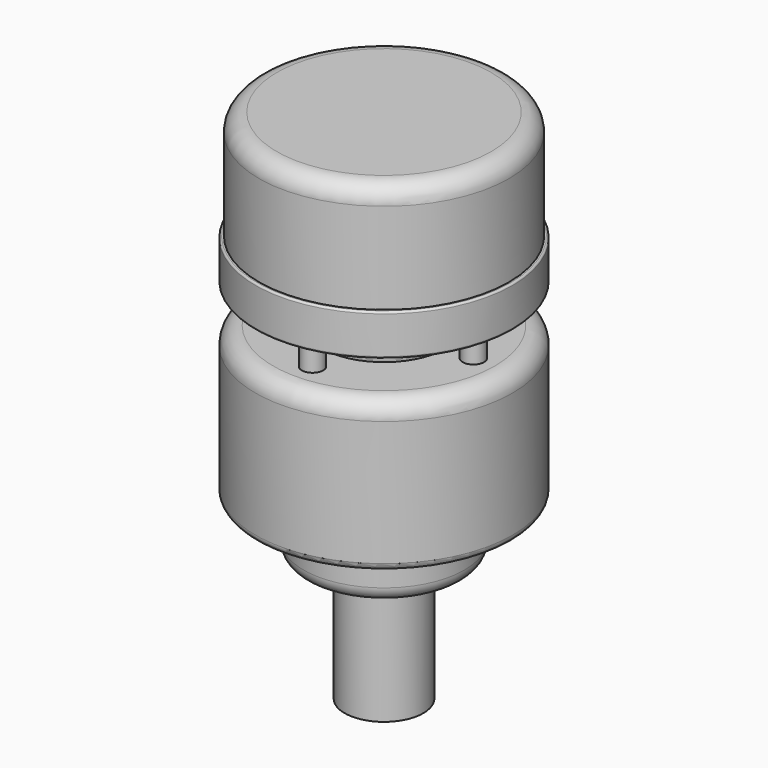
from build123d import *

# Parameters (mm, degrees)
CYLINDER003_R             = 11
CYLINDER003_DEPTH         = 35
CYLINDER007_R             = 3
CYLINDER007_DEPTH         = 14
CYLINDER006_R             = 3
CYLINDER006_DEPTH         = 14
FUSION001_PLACEMENT_ANGLE = 90
CYLINDER005_R             = 3
CYLINDER005_DEPTH         = 14
CYLINDER004_R             = 3
CYLINDER004_DEPTH         = 14
CYLINDER008_R             = 4
CYLINDER008_DEPTH         = 14
CYLINDER015_R             = 36
CYLINDER015_DEPTH         = 5.5
CYLINDER014_R             = 36
CYLINDER014_DEPTH         = 6
CYLINDER012_R             = 8.5
CYLINDER012_DEPTH         = 2
CYLINDER011_R             = 8.5
CYLINDER011_DEPTH         = 2
FUSION004_PLACEMENT_ANGLE = 90
CYLINDER010_R             = 8.5
CYLINDER010_DEPTH         = 2
CYLINDER009_R             = 8.5
CYLINDER009_DEPTH         = 2
FUSION005_PLACEMENT_ANGLE = 45
CYLINDER_R                = 35
CYLINDER_DEPTH            = 42
FILLET_R                  = 5
FILLET001_R               = 0.5
CYLINDER001_R             = 36
CYLINDER001_DEPTH         = 42
FILLET002_1_R             = 5
FILLET002_2_R             = 2
CYLINDER013_R             = 17.5
CYLINDER013_DEPTH         = 2
FILLET003_R               = 1.5
CYLINDER002_R             = 22.5
CYLINDER002_DEPTH         = 15
FILLET004_R               = 4


with BuildPart() as mount:
    # Cylinder003 → Cylinder003 (new body)
    with BuildSketch(Plane.XY.offset(-102.5)):
        Circle(CYLINDER003_R)
    extrude(amount=CYLINDER003_DEPTH)


with BuildPart() as cylinder007:
    # Cylinder007 → Cylinder007 (new body)
    with BuildSketch(Plane(origin=(25, 0, -12), x_dir=(1, 0, 0), z_dir=(0, 0, 1))):
        Circle(CYLINDER007_R)
    extrude(amount=CYLINDER007_DEPTH)


with BuildPart() as part_mirroring001:
    # Part__Mirroring001: instance of Cylinder007
    add(cylinder007.part.mirror(Plane(origin=(0, 0, 0), x_dir=(0, -1, 0), z_dir=(1, 0, 0))))


with BuildPart() as f_2cyl001:
    # Cylinder006 → Cylinder006 (new body)
    with BuildSketch(Plane(origin=(25, 0, -12), x_dir=(1, 0, 0), z_dir=(0, 0, 1))):
        Circle(CYLINDER006_R)
    extrude(amount=CYLINDER006_DEPTH)

    # Fusion001: union Part__Mirroring001
    add(part_mirroring001.part)


with BuildPart() as f_2cyl001_1:
    # Fusion001 placement: moved
    add(f_2cyl001.part.rotate(Axis((0, 0, 0), (0, 0, 1)), FUSION001_PLACEMENT_ANGLE))


with BuildPart() as cylinder2:
    # Cylinder005 → Cylinder005 (new body)
    with BuildSketch(Plane(origin=(25, 0, -12), x_dir=(1, 0, 0), z_dir=(0, 0, 1))):
        Circle(CYLINDER005_R)
    extrude(amount=CYLINDER005_DEPTH)


with BuildPart() as part_mirroring:
    # Part__Mirroring: instance of Cylinder2
    add(cylinder2.part.mirror(Plane(origin=(0, 0, 0), x_dir=(0, -1, 0), z_dir=(1, 0, 0))))


with BuildPart() as fusion002:
    # Cylinder004 → Cylinder004 (new body)
    with BuildSketch(Plane(origin=(25, 0, -12), x_dir=(1, 0, 0), z_dir=(0, 0, 1))):
        Circle(CYLINDER004_R)
    extrude(amount=CYLINDER004_DEPTH)

    # Fusion: union Part__Mirroring
    add(part_mirroring.part)

    # Fusion002: union 2cyl001
    add(f_2cyl001_1.part)


with BuildPart() as middlecyl:
    # Cylinder008 → Cylinder008 (new body)
    with BuildSketch(Plane.XY.offset(-12)):
        Circle(CYLINDER008_R)
    extrude(amount=CYLINDER008_DEPTH)


with BuildPart() as outer_top:
    # Cylinder015 → Cylinder015 (new body)
    with BuildSketch(Plane.XY.offset(6)):
        Circle(CYLINDER015_R)
    extrude(amount=CYLINDER015_DEPTH)


with BuildPart() as outer:
    # Cylinder014 → Cylinder014 (new body)
    with BuildSketch(Plane.XY):
        Circle(CYLINDER014_R)
    extrude(amount=CYLINDER014_DEPTH)

    # Fusion006: union outer_top
    add(outer_top.part)


with BuildPart() as cylinder012:
    # Cylinder012 → Cylinder012 (new body)
    with BuildSketch(Plane(origin=(20, 0, -12), x_dir=(1, 0, 0), z_dir=(0, 0, 1))):
        Circle(CYLINDER012_R)
    extrude(amount=CYLINDER012_DEPTH)


with BuildPart() as part_mirroring003:
    # Part__Mirroring003: instance of Cylinder012
    add(cylinder012.part.mirror(Plane(origin=(0, 0, 0), x_dir=(0, -1, 0), z_dir=(1, 0, 0))))


with BuildPart() as f_2cyl003:
    # Cylinder011 → Cylinder011 (new body)
    with BuildSketch(Plane(origin=(20, 0, -12), x_dir=(1, 0, 0), z_dir=(0, 0, 1))):
        Circle(CYLINDER011_R)
    extrude(amount=CYLINDER011_DEPTH)

    # Fusion004: union Part__Mirroring003
    add(part_mirroring003.part)


with BuildPart() as f_2cyl003_1:
    # Fusion004 placement: moved
    add(f_2cyl003.part.rotate(Axis((0, 0, 0), (0, 0, 1)), FUSION004_PLACEMENT_ANGLE))


with BuildPart() as cylinder010:
    # Cylinder010 → Cylinder010 (new body)
    with BuildSketch(Plane(origin=(20, 0, -12), x_dir=(1, 0, 0), z_dir=(0, 0, 1))):
        Circle(CYLINDER010_R)
    extrude(amount=CYLINDER010_DEPTH)


with BuildPart() as part_mirroring002:
    # Part__Mirroring002: instance of Cylinder010
    add(cylinder010.part.mirror(Plane(origin=(0, 0, 0), x_dir=(0, -1, 0), z_dir=(1, 0, 0))))


with BuildPart() as inside_holes:
    # Cylinder009 → Cylinder009 (new body)
    with BuildSketch(Plane(origin=(20, 0, -12), x_dir=(1, 0, 0), z_dir=(0, 0, 1))):
        Circle(CYLINDER009_R)
    extrude(amount=CYLINDER009_DEPTH)

    # Fusion003: union Part__Mirroring002
    add(part_mirroring002.part)

    # Fusion005: union 2cyl003
    add(f_2cyl003_1.part)


with BuildPart() as inside_holes_1:
    # Fusion005 placement: moved
    add(inside_holes.part.moved(Location((0, 0, 12))).rotate(Axis((0, 0, 12), (0, 0, 1)), FUSION005_PLACEMENT_ANGLE))


with BuildPart() as upper001:
    # Cylinder → Cylinder (new body)
    with BuildSketch(Plane.XY):
        Circle(CYLINDER_R)
    extrude(amount=CYLINDER_DEPTH)

    # Cut: cut inside_holes
    add(inside_holes_1.part, mode=Mode.SUBTRACT)

    # Fillet
    fillet_edges = [upper001.edges().sort_by_distance(p)[0] for p in [
        (-35, 0, 42),
    ]]
    fillet(fillet_edges, radius=FILLET_R)

    # Fusion007: union Outer
    add(outer.part)

    # Fillet001
    fillet001_edges = [upper001.edges().sort_by_distance(p)[0] for p in [
        (-36, 0, 0),
        (-36, 0, 11.5),
    ]]
    fillet(fillet001_edges, radius=FILLET001_R)


with BuildPart() as bottom:
    # Cylinder001 → Cylinder001 (new body)
    with BuildSketch(Plane.XY.offset(-52.5)):
        Circle(CYLINDER001_R)
    extrude(amount=CYLINDER001_DEPTH)

    # Fillet002 1
    fillet002_1_edges = [bottom.edges().sort_by_distance(p)[0] for p in [
        (-36, 0, -10.5),
    ]]
    fillet(fillet002_1_edges, radius=FILLET002_1_R)

    # Fillet002 2
    fillet002_2_edges = [bottom.edges().sort_by_distance(p)[0] for p in [
        (-36, 0, -52.5),
    ]]
    fillet(fillet002_2_edges, radius=FILLET002_2_R)


with BuildPart() as mid:
    # Cylinder013 → Cylinder013 (new body)
    with BuildSketch(Plane.XY.offset(-10.5)):
        Circle(CYLINDER013_R)
    extrude(amount=CYLINDER013_DEPTH)

    # Fillet003
    fillet003_edges = [mid.edges().sort_by_distance(p)[0] for p in [
        (-17.5, 0, -8.5),
    ]]
    fillet(fillet003_edges, radius=FILLET003_R)


with BuildPart() as cap001:
    # Cylinder002 → Cylinder002 (new body)
    with BuildSketch(Plane.XY.offset(-67.5)):
        Circle(CYLINDER002_R)
    extrude(amount=CYLINDER002_DEPTH)

    # Fillet004
    fillet004_edges = [cap001.edges().sort_by_distance(p)[0] for p in [
        (-22.5, 0, -67.5),
    ]]
    fillet(fillet004_edges, radius=FILLET004_R)


solid = Compound([mount.part, fusion002.part, middlecyl.part, upper001.part, bottom.part, mid.part, cap001.part])
